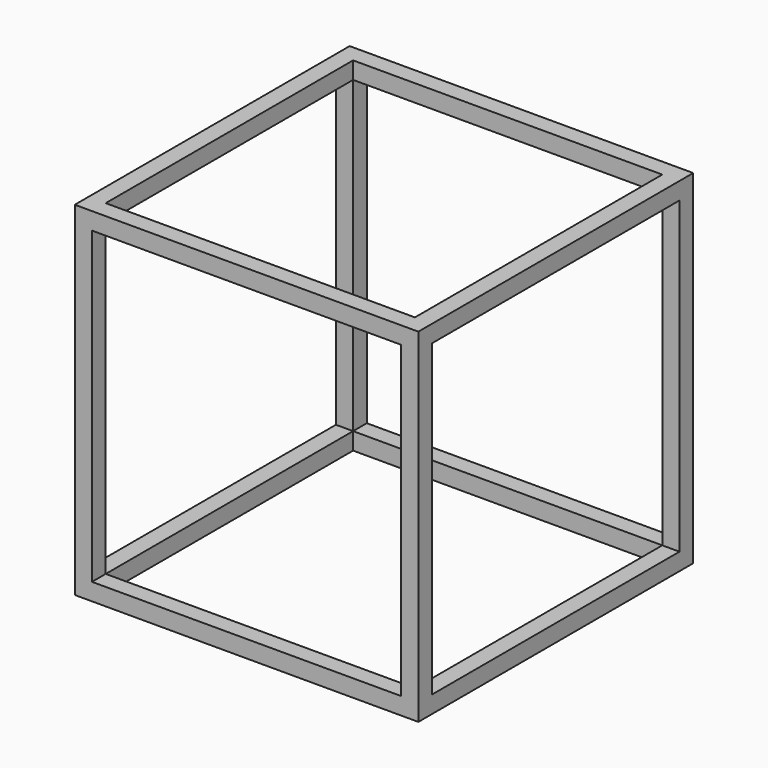
from build123d import *

# Parameters (mm, degrees)
F0_W     = 50.8
F0_H     = 50.8
F1_DEPTH = 50.8
F2_W     = 45.72
F2_H     = 45.72
F3_DEPTH = 50.8
F4_W     = 45.72
F4_H     = 45.72
F5_DEPTH = 50.8
F6_W     = 45.72
F6_H     = 45.72
F7_DEPTH = 50.8


with BuildPart() as f1:
    # F0 (on Top) → F1 (new body)
    with BuildSketch(Plane.XY):
        with Locations((25.4, -25.4)):
            Rectangle(F0_W, F0_H)
    extrude(amount=F1_DEPTH)

    # F2 (on face) → F3 (cut)
    with BuildSketch(Plane.XY.offset(50.8)):
        with Locations((25.4, -25.4)):
            Rectangle(F2_W, F2_H)
    extrude(amount=-F3_DEPTH, mode=Mode.SUBTRACT)

    # F4 (on face) → F5 (cut)
    with BuildSketch(Plane.XZ.offset(50.8)):
        with Locations((25.4, 25.4)):
            Rectangle(F4_W, F4_H)
    extrude(amount=-F5_DEPTH, mode=Mode.SUBTRACT)

    # F6 (on face) → F7 (cut)
    with BuildSketch(Plane.YZ.offset(50.8)):
        with Locations((-25.4, 25.4)):
            Rectangle(F6_W, F6_H)
    extrude(amount=-F7_DEPTH, mode=Mode.SUBTRACT)


solid = f1.part
